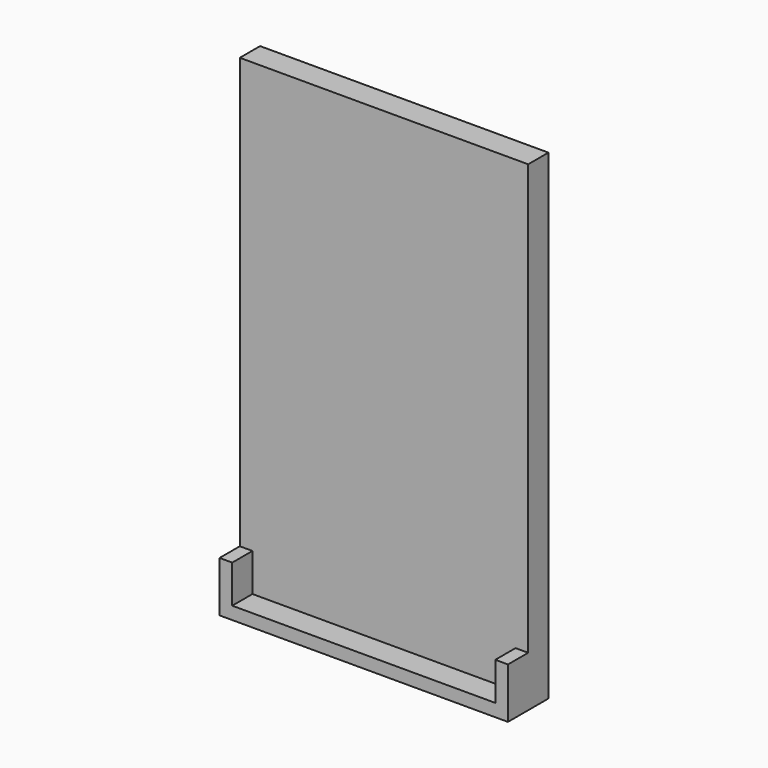
from build123d import *

# Parameters (mm, degrees)
F0_W     = 104
F0_H     = 5
F0_W_2   = 5
F0_H_2   = 15
F1_DEPTH = 10
F2_DEPTH = 10


with BuildPart() as f1:
    # F0 (on Front) → F1 (new body)
    with BuildSketch(Plane.XZ):
        with Locations((0.4955184162, -87.9514326147)):
            Rectangle(F0_W, F0_H)
        with Locations((-54.0044815838, -87.9514326147)):
            Rectangle(F0_W_2, F0_H)
        with Locations((-54.0044815838, -77.9514326147)):
            Rectangle(F0_W_2, F0_H_2)
        with Locations((54.9955184162, -77.9514326147)):
            Rectangle(F0_W_2, F0_H_2)
        with Locations((54.9955184162, -87.9514326147)):
            Rectangle(F0_W_2, F0_H)
    extrude(amount=F1_DEPTH)

    # F0 (on Front) → F2 (join)
    with BuildSketch(Plane.XZ):
        with Locations((-54.0044815838, -87.9514326147)):
            Rectangle(F0_W_2, F0_H)
        with Locations((54.9955184162, -87.9514326147)):
            Rectangle(F0_W_2, F0_H)
        with Locations((0.4955184162, -87.9514326147)):
            Rectangle(F0_W, F0_H)
        with Locations((-54.0044815838, -77.9514326147)):
            Rectangle(F0_W_2, F0_H_2)
        with Locations((54.9955184162, -77.9514326147)):
            Rectangle(F0_W_2, F0_H_2)
        with Locations((0.4955184162, -77.9514326147)):
            Rectangle(F0_W, F0_H_2)
        Polygon((57.4955184162, 99.5485673853), (-56.5044815838, 99.5485673853), (-56.5044815838, -70.4514326147), (-51.5044815838, -70.4514326147), (52.4955184162, -70.4514326147), (57.4955184162, -70.4514326147), align=None)
    extrude(amount=-F2_DEPTH)


solid = f1.part
